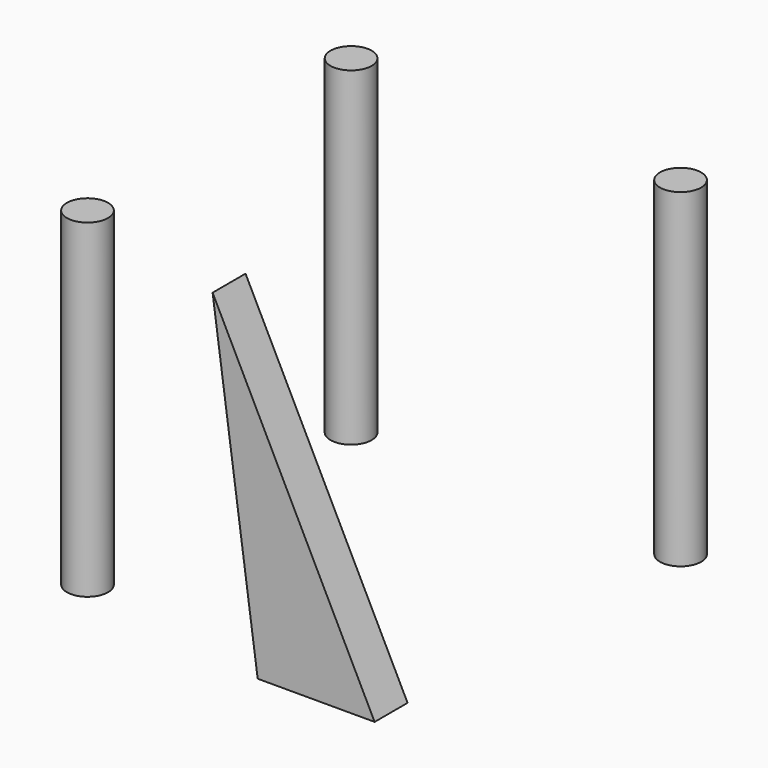
from build123d import *

# Parameters (mm, degrees)
F0_R     = 1.25
F1_DEPTH = 20
F3_DEPTH = 2.5


with BuildPart() as f1:
    # F0 (on Top) → F1 (new body)
    with BuildSketch(Plane.XY):
        with Locations((0, 20)):
            Circle(F0_R)
        Circle(F0_R)
        with Locations((20, 20)):
            Circle(F0_R)
    extrude(amount=F1_DEPTH)


with BuildPart() as f3:
    # F2 (on Front) → F3 (new body)
    with BuildSketch(Plane.XZ):
        Polygon((12.330556, 0), (19.429661, 0), (9.594443, 19.741047), align=None)
    extrude(amount=F3_DEPTH)


solid = Compound([f1.part, f3.part])
